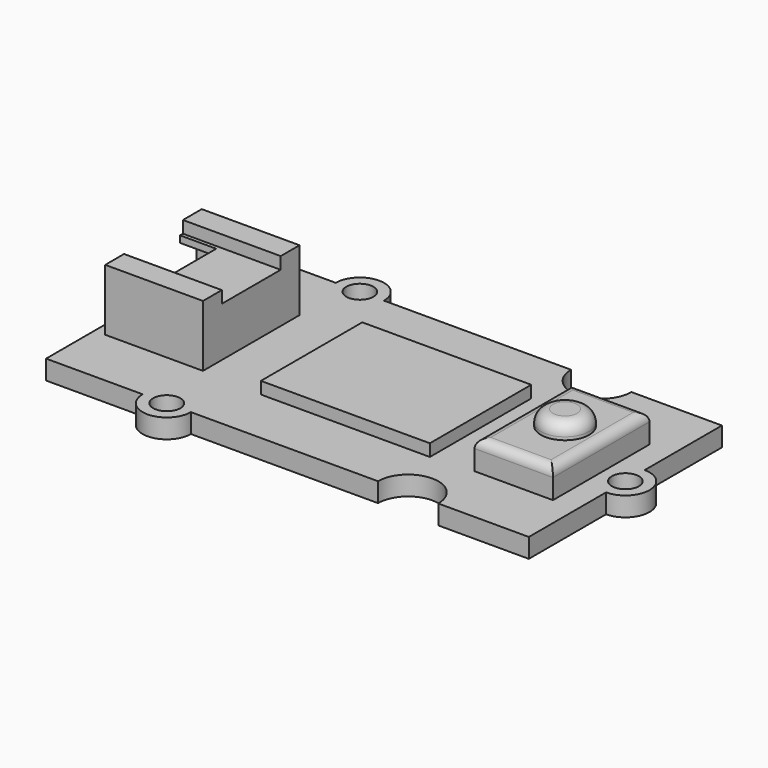
from build123d import *

# Parameters (mm, degrees)
PAD_DEPTH               = 1.6
SKETCH001_R             = 1.125
POCKET_DEPTH            = 1.601
PAD005_DEPTH            = 8.1
POCKET003_DEPTH         = 7
SKETCH010_W             = 6.8
SKETCH010_H             = 5
POCKET004_DEPTH         = 1
SKETCH011_W             = 5.5
SKETCH011_H             = 3
POCKET005_DEPTH         = 3
PAD006_DEPTH            = 4
BODY005_ROLL_ANGLE      = -90
BODY005_PLACEMENT_ANGLE = 90
SKETCH013_W             = 14
SKETCH013_H             = 10.5
PAD007_DEPTH            = 1
SKETCH014_W             = 6.5
SKETCH014_H             = 10
PAD008_DEPTH            = 2.4
SKETCH015_R             = 2
PAD009_DEPTH            = 1.25
FILLET_R                = 1
FILLET001_R             = 0.75


with BuildPart() as obj1:
    # Sketch → Pad (new body)
    with BuildSketch(Plane.XY):
        with BuildLine():
            Line((-20, 10), (-12, 10))
            ThreePointArc((-8, 10), (-10, 12), (-12, 10))
            Line((-8, 10), (0, 10))
            Line((0, 10), (7.5, 10))
            ThreePointArc((7.5, 10), (10, 7.5), (12.5, 10))
            Line((12.5, 10), (20, 10))
            Line((20, 10), (20, 2))
            ThreePointArc((20, -2), (22, 0), (20, 2))
            Line((20, -10), (20, -2))
            Line((20, -10), (12.5, -10))
            ThreePointArc((12.5, -10), (10, -7.5), (7.5, -10))
            Line((7.5, -10), (0, -10))
            Line((0, -10), (-8, -10))
            ThreePointArc((-12, -10), (-10, -12), (-8, -10))
            Line((-12, -10), (-20, -10))
            Line((-20, -10), (-20, -2.5))
            ThreePointArc((-20, -2.5), (-17.5, 0), (-20, 2.5))
            Line((-20, 10), (-20, 2.5))
        make_face()
    extrude(amount=PAD_DEPTH)

    # Sketch001 → Pocket (cut, through all)
    with BuildSketch(Plane.XY):
        with Locations((-10, 10)):
            Circle(SKETCH001_R)
        with Locations((-10, -10)):
            Circle(SKETCH001_R)
        with Locations((20, 0)):
            Circle(SKETCH001_R)
    extrude(amount=POCKET_DEPTH, mode=Mode.SUBTRACT)


with BuildPart() as obj2:
    # Sketch008 → Pad005 (new body)
    with BuildSketch(Plane.XY):
        Polygon((-5, 0), (-3.05, 0), (-3.05, 1), (3.05, 1), (3.05, 0), (5, 0), (5, 5.1), (-5, 5.1), align=None)
    extrude(amount=PAD005_DEPTH)

    # Sketch009 (on Face10 of Pad005) → Pocket003 (cut)
    with BuildSketch(Plane.XY.offset(8.1)):
        Polygon((-4.45, 0.55), (-3.45, 0.55), (-3.45, 1.55), (3.45, 1.55), (3.45, 0.55), (4.45, 0.55), (4.45, 4.55), (-4.45, 4.55), align=None)
    extrude(amount=-POCKET003_DEPTH, mode=Mode.SUBTRACT)

    # Sketch010 (on Face5 of Pocket003) → Pocket004 (cut)
    with BuildSketch(Plane.XY.offset(8.1)):
        with Locations((0, 5.5)):
            Rectangle(SKETCH010_W, SKETCH010_H)
    extrude(amount=-POCKET004_DEPTH, mode=Mode.SUBTRACT)

    # Sketch011 (on Face5 of Pocket004) → Pocket005 (cut)
    with BuildSketch(Plane.XY.offset(8.1)):
        with Locations((0, 1.5)):
            Rectangle(SKETCH011_W, SKETCH011_H)
    extrude(amount=-POCKET005_DEPTH, mode=Mode.SUBTRACT)

    # Sketch012 (on Face26 of Pocket005) → Pad006 (join)
    with BuildSketch(Plane.XY.offset(1.1)):
        with BuildLine():
            ThreePointArc((-3.4, 3.25), (-3.65, 3), (-3.4, 2.75))
            Line((-3.4, 2.75), (3.4, 2.75))
            ThreePointArc((3.4, 2.75), (3.65, 3), (3.4, 3.25))
            Line((-3.4, 3.25), (3.4, 3.25))
        make_face()
    extrude(amount=PAD006_DEPTH)


with BuildPart() as obj2_1:
    # Body005 roll: moved
    add(obj2.part.rotate(Axis((0, 0, 0), (1, 0, 0)), BODY005_ROLL_ANGLE))


with BuildPart() as obj2_2:
    # Body005 placement: moved
    add(obj2_1.part.moved(Location((-11, 0, 6.7))).rotate(Axis((-11, 0, 6.7), (0, 0, 1)), BODY005_PLACEMENT_ANGLE))


with BuildPart() as electroniccomponents:
    # Sketch013 (on Face1 of CopyPocket) → Pad007 (new body)
    with BuildSketch(Plane.XY.offset(1.6)):
        with Locations((1, 0)):
            Rectangle(SKETCH013_W, SKETCH013_H)
    extrude(amount=PAD007_DEPTH)


with BuildPart() as obj3:
    # Sketch014 (on Face1 of CopyPocket001) → Pad008 (new body)
    with BuildSketch(Plane.XY.offset(1.6)):
        with Locations((14.75, 0)):
            Rectangle(SKETCH014_W, SKETCH014_H)
    extrude(amount=PAD008_DEPTH)

    # Sketch015 (on Face6 of Pad008) → Pad009 (join)
    with BuildSketch(Plane.XY.offset(4)):
        with Locations((15, 0)):
            Circle(SKETCH015_R)
    extrude(amount=PAD009_DEPTH)

    # Fillet
    fillet_edges = [obj3.edges().sort_by_distance(p)[0] for p in [
        (13, 0, 5.25),
    ]]
    fillet(fillet_edges, radius=FILLET_R)

    # Fillet001
    fillet001_edges = [obj3.edges().sort_by_distance(p)[0] for p in [
        (11.5, 0, 4),
        (18, 0, 4),
        (14.75, -5, 4),
        (14.75, 5, 4),
    ]]
    fillet(fillet001_edges, radius=FILLET001_R)


solid = Compound([obj1.part, obj2_2.part, electroniccomponents.part, obj3.part])
